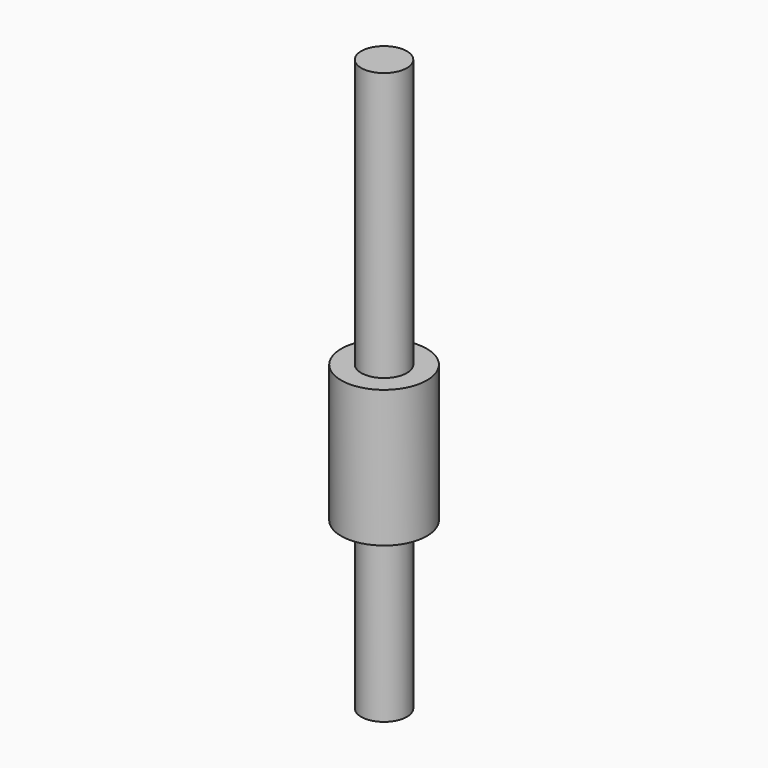
from build123d import *

# Parameters (mm, degrees)
CYLINDER013_R     = 7.5
CYLINDER013_DEPTH = 24
CYLINDER007_R     = 4
CYLINDER007_DEPTH = 100


with BuildPart() as rod_bearing_cylinder:
    # Cylinder013 → Cylinder013 (new body)
    with BuildSketch(Plane(origin=(42, 0, -94), x_dir=(1, 0, 0), z_dir=(0, 0, 1))):
        Circle(CYLINDER013_R)
    extrude(amount=CYLINDER013_DEPTH)


with BuildPart() as rod_fusion001:
    # Cylinder007 → Cylinder007 (new body)
    with BuildSketch(Plane(origin=(42, 0, -123), x_dir=(1, 0, 0), z_dir=(0, 0, 1))):
        Circle(CYLINDER007_R)
    extrude(amount=CYLINDER007_DEPTH)

    # Fusion007: union rod bearing cylinder
    add(rod_bearing_cylinder.part)


with BuildPart() as rod_fusion001_1:
    # Fusion007 placement: moved
    add(rod_fusion001.part.moved(Location((-28, 14, 92))))


solid = rod_fusion001_1.part
